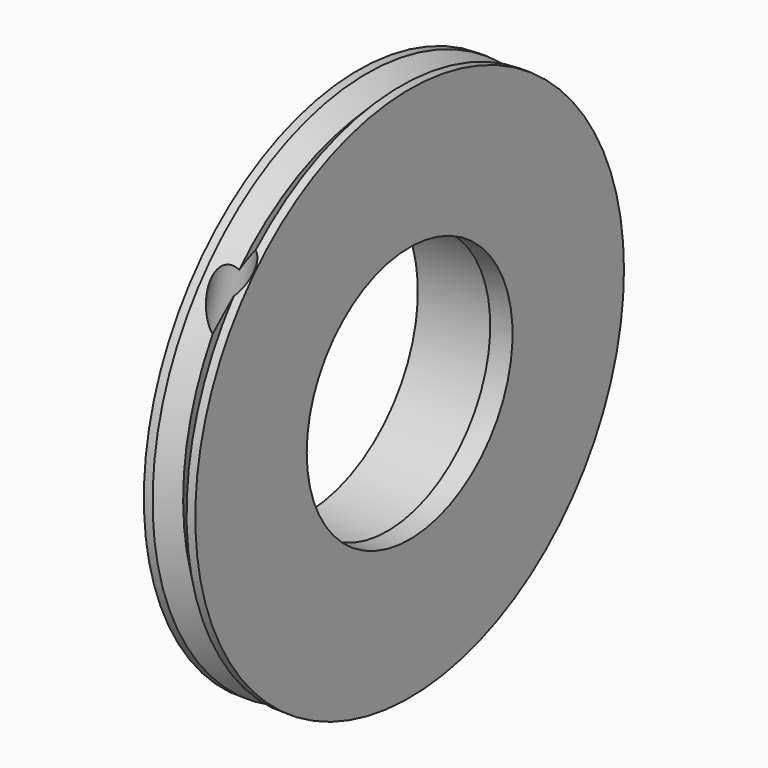
from build123d import *

# Parameters (mm, degrees)
CYLINDER_R           = 1
CYLINDER_DEPTH       = 26
CYLINDER_PITCH_ANGLE = 11
SKETCH001_W          = 1.861037
SKETCH001_H          = 10.545838
POCKET_DEPTH         = 3
SKETCH002_R          = 8.1
POCKET001_DEPTH      = 4.7
SKETCH003_R          = 7.5
POCKET002_DEPTH      = 5


with BuildPart() as cylinder:
    # Cylinder → Cylinder (new body)
    with BuildSketch(Plane.XY):
        Circle(CYLINDER_R)
    extrude(amount=CYLINDER_DEPTH)


with BuildPart() as cylinder_1:
    # Cylinder pitch: moved
    add(cylinder.part.rotate(Axis((0, 0, 0), (0, 1, 0)), CYLINDER_PITCH_ANGLE))


with BuildPart() as cylinder_2:
    # Cylinder placement: moved
    add(cylinder_1.part.moved(Location((-5, -11.5, -9.5))))


with BuildPart() as cut:
    # Sketch → Revolution (revolve)
    with BuildSketch(Plane.XY):
        Polygon((-6, 0), (-6, 11), (-5.489949, 11), (-4.5, 10.010051), (-3.510051, 11), (-3, 11), (-3, 15.62), (-2.489949, 15.62), (-1.5, 14.630051), (-0.510051, 15.62), (0, 15.62), (0, 0), align=None)
    revolve(axis=Axis((0, 0, 0), (1, 0, 0)))

    # Sketch001 → Pocket (cut)
    with BuildSketch(Plane(origin=(-6, 0, 0), x_dir=(0, -1, 0), z_dir=(-1, 0, 0))):
        with Locations((10.838202, -0.192388)):
            Rectangle(SKETCH001_W, SKETCH001_H)
    extrude(amount=-POCKET_DEPTH, mode=Mode.SUBTRACT)

    # Sketch002 → Pocket001 (cut)
    with BuildSketch(Plane(origin=(-6, 0, 0), x_dir=(0, -1, 0), z_dir=(-1, 0, 0))):
        Circle(SKETCH002_R)
    extrude(amount=-POCKET001_DEPTH, mode=Mode.SUBTRACT)

    # Sketch003 → Pocket002 (cut)
    with BuildSketch(Plane(origin=(-1.3, 0, 0), x_dir=(0, -1, 0), z_dir=(-1, 0, 0))):
        Circle(SKETCH003_R)
    extrude(amount=-POCKET002_DEPTH, mode=Mode.SUBTRACT)

    # Cut: cut Cylinder
    add(cylinder_2.part, mode=Mode.SUBTRACT)


solid = cut.part
